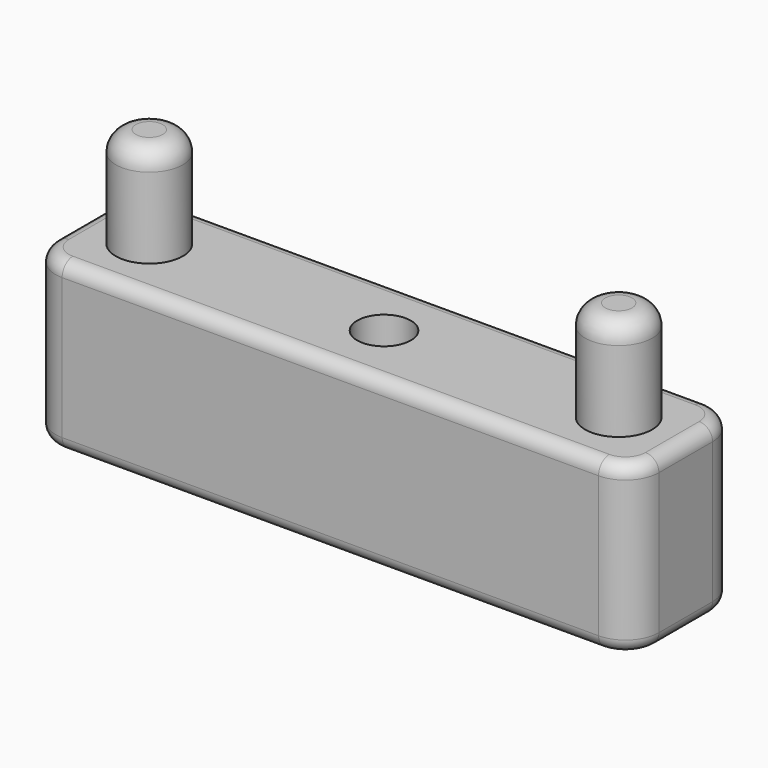
from build123d import *

# Parameters (mm, degrees)
F0_W     = 90
F0_H     = 20
F1_DEPTH = 25
F2_R     = 5
F3_DEPTH = 15
F4_R     = 4
F5_DEPTH = 25.001
F6_R     = 5
F7_R     = 3
F8_R     = 3
F9_R     = 2
F10_R    = 2


with BuildPart() as f1:
    # F0 (on Top) → F1 (new body)
    with BuildSketch(Plane.XY):
        with Locations((45, 10)):
            Rectangle(F0_W, F0_H)
    extrude(amount=-F1_DEPTH)

    # F2 (on Top) → F3 (join)
    with BuildSketch(Plane.XY):
        with Locations((10, 10)):
            Circle(F2_R)
        with Locations((80, 10)):
            Circle(F2_R)
    extrude(amount=F3_DEPTH)

    # F4 (on Top) → F5 (cut, through all)
    with BuildSketch(Plane.XY):
        with Locations((45, 10)):
            Circle(F4_R)
    extrude(amount=-F5_DEPTH, mode=Mode.SUBTRACT)

    # F6
    f6_edges = [f1.edges().sort_by_distance(p)[0] for p in [
        (0, 0, -12.5),
        (0, 20, -12.5),
        (90, 0, -12.5),
        (90, 20, -12.5),
    ]]
    fillet(f6_edges, radius=F6_R)

    # F7
    f7_edges = [f1.edges().sort_by_distance(p)[0] for p in [
        (5, 10, 15),
        (75, 10, 15),
    ]]
    fillet(f7_edges, radius=F7_R)

    # F8
    f8_edges = [f1.edges().sort_by_distance(p)[0] for p in [
        (41, 10, -25),
    ]]
    fillet(f8_edges, radius=F8_R)

    # F9
    f9_edges = [f1.edges().sort_by_distance(p)[0] for p in [
        (45, 0, -25),
    ]]
    fillet(f9_edges, radius=F9_R)

    # F10
    f10_edges = [f1.edges().sort_by_distance(p)[0] for p in [
        (45, 0, 0),
    ]]
    fillet(f10_edges, radius=F10_R)


solid = f1.part
